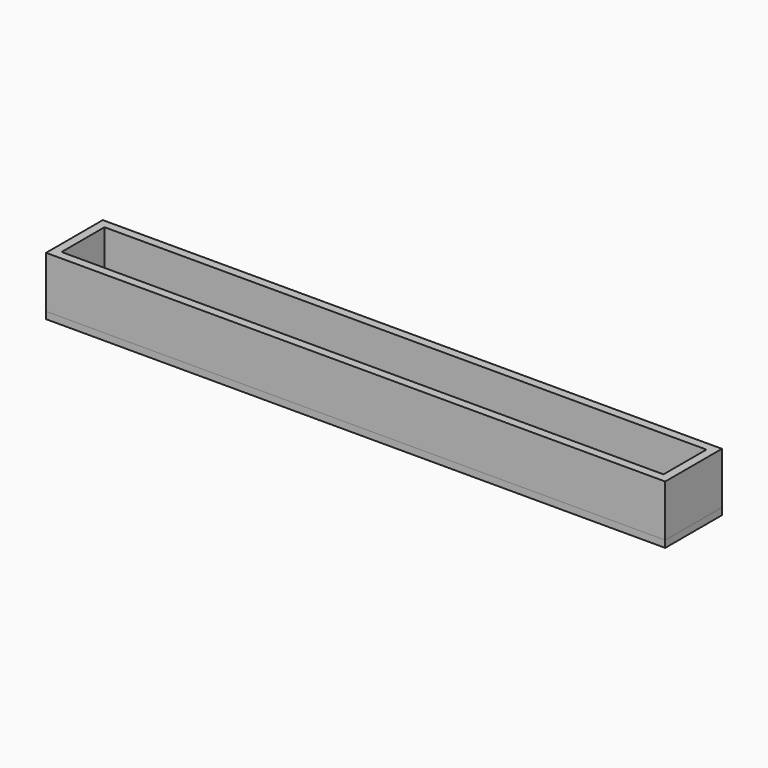
from build123d import *

# Parameters (mm, degrees)
F0_W     = 180
F0_H     = 20.6
F0_W_2   = 175
F0_H_2   = 15.6
F1_DEPTH = 2
F2_DEPTH = 15


with BuildPart() as f1:
    # F0 (on Top) → F1 (new body)
    with BuildSketch(Plane.XY):
        Rectangle(F0_W, F0_H)
        Rectangle(F0_W_2, F0_H_2, mode=Mode.SUBTRACT)
        Rectangle(F0_W_2, F0_H_2)
    extrude(amount=-F1_DEPTH)


with BuildPart() as f2:
    # F0 (on Top) → F2 (new body)
    with BuildSketch(Plane.XY):
        Rectangle(F0_W, F0_H)
        Rectangle(F0_W_2, F0_H_2, mode=Mode.SUBTRACT)
    extrude(amount=F2_DEPTH)


solid = Compound([f1.part, f2.part])
